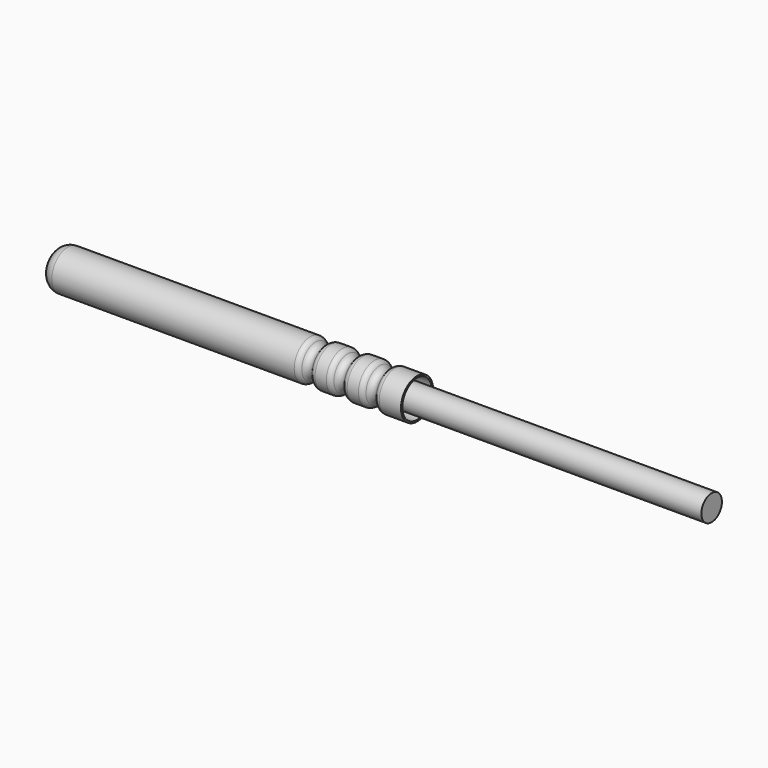
from build123d import *

# Parameters (mm, degrees)
SKETCH001_R = 1.6
PAD_DEPTH   = 50


with BuildPart() as huelse:
    # Sketch → Revolution (revolve)
    with BuildSketch(Plane.XZ):
        with BuildLine():
            Line((-11.7, 0), (-11.7, 1))
            ThreePointArc((-10.2, 2.5), (-11.26066, 2.06066), (-11.7, 1))
            Line((-10.2, 2.5), (20.000962, 2.5))
            ThreePointArc((20.650481, 2.125), (20.375962, 2.399519), (20.000962, 2.5))
            ThreePointArc((20.650481, 2.125), (21.3, 1.75), (21.949519, 2.125))
            ThreePointArc((22.599038, 2.5), (22.224038, 2.399519), (21.949519, 2.125))
            Line((22.599038, 2.5), (24.000962, 2.5))
            ThreePointArc((24.650481, 2.125), (24.375962, 2.399519), (24.000962, 2.5))
            ThreePointArc((24.650481, 2.125), (25.3, 1.75), (25.949519, 2.125))
            ThreePointArc((26.599038, 2.5), (26.224038, 2.399519), (25.949519, 2.125))
            Line((26.599038, 2.5), (28.000962, 2.5))
            ThreePointArc((28.650481, 2.125), (28.375962, 2.399519), (28.000962, 2.5))
            ThreePointArc((28.650481, 2.125), (29.3, 1.75), (29.949519, 2.125))
            ThreePointArc((30.599038, 2.5), (30.224038, 2.399519), (29.949519, 2.125))
            Line((30.599038, 2.5), (33.3, 2.5))
            Line((33.3, 2.5), (33.3, 2.3))
            Line((30.599038, 2.3), (33.3, 2.3))
            ThreePointArc((30.599038, 2.3), (30.324038, 2.226314), (30.122724, 2.025))
            ThreePointArc((28.477276, 2.025), (29.3, 1.55), (30.122724, 2.025))
            ThreePointArc((28.477276, 2.025), (28.275962, 2.226314), (28.000962, 2.3))
            Line((28.000962, 2.3), (26.599038, 2.3))
            ThreePointArc((26.599038, 2.3), (26.324038, 2.226314), (26.122724, 2.025))
            ThreePointArc((24.477276, 2.025), (25.3, 1.55), (26.122724, 2.025))
            ThreePointArc((24.477276, 2.025), (24.275962, 2.226314), (24.000962, 2.3))
            Line((22.599038, 2.3), (24.000962, 2.3))
            ThreePointArc((22.599038, 2.3), (22.324038, 2.226314), (22.122724, 2.025))
            ThreePointArc((20.477276, 2.025), (21.3, 1.55), (22.122724, 2.025))
            ThreePointArc((20.477276, 2.025), (20.275962, 2.226314), (20.000962, 2.3))
            Line((-10.2, 2.3), (20.000962, 2.3))
            ThreePointArc((-10.2, 2.3), (-11.119239, 1.919239), (-11.5, 1))
            Line((-11.5, 0), (-11.5, 1))
            Line((-11.7, 0), (-11.5, 0))
        make_face()
    revolve(axis=Axis((0, 0, 0), (1, 0, 0)))


with BuildPart() as obj1:
    # Sketch001 → Pad (new body)
    with BuildSketch(Plane.YZ.offset(20)):
        Circle(SKETCH001_R)
    extrude(amount=PAD_DEPTH)


solid = Compound([huelse.part, obj1.part])
